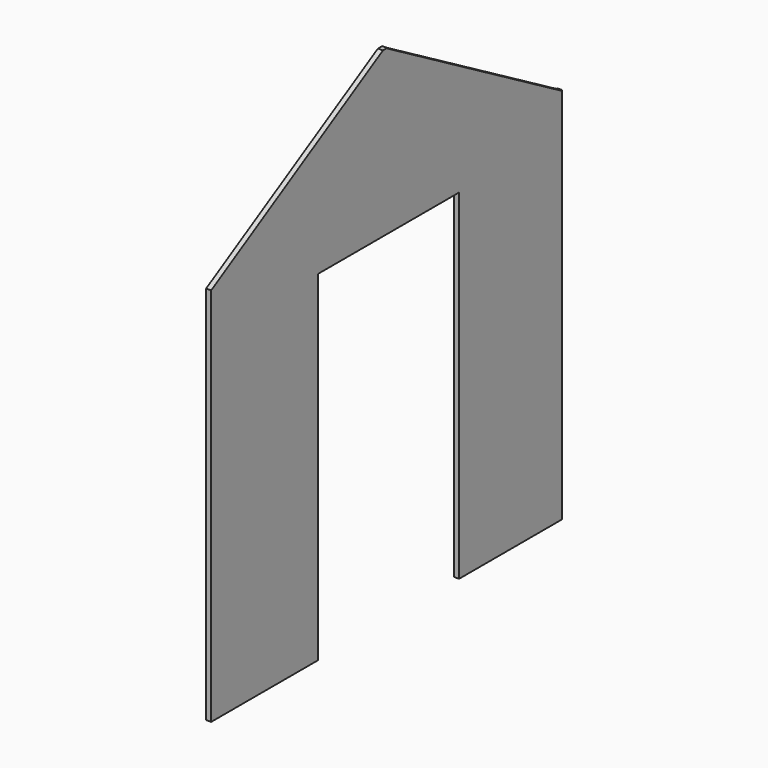
from build123d import *

# Parameters (mm, degrees)
BOX013_W               = 10
BOX013_H               = 140
BOX013_DEPTH           = 270
BOX009_W               = 18
BOX009_H               = 200
BOX009_DEPTH           = 87
BOX009_PLACEMENT_ANGLE = 30
BOX008_W               = 18
BOX008_H               = 200
BOX008_DEPTH           = 87
BOX008_PLACEMENT_ANGLE = 30
BOX007_W               = 348
BOX007_H               = 4
BOX007_DEPTH           = 400


with BuildPart() as door:
    # Box013 → Box013 (new body)
    with BuildSketch(Plane(origin=(-5, 106, 0), x_dir=(1, 0, 0), z_dir=(0, 0, 1))):
        with Locations((5, 70)):
            Rectangle(BOX013_W, BOX013_H)
    extrude(amount=BOX013_DEPTH)


with BuildPart() as box009:
    # Box009 → Box009 (new body)
    with BuildSketch(Plane.XY):
        with Locations((9, 100)):
            Rectangle(BOX009_W, BOX009_H)
    extrude(amount=BOX009_DEPTH)


with BuildPart() as box009_1:
    # Box009 placement: moved
    add(box009.part.moved(Location((598, 174.528857, 399.719854))).rotate(Axis((598, 174.528857, 399.719854), (-1, 0, 0)), BOX009_PLACEMENT_ANGLE))


with BuildPart() as box008:
    # Box008 → Box008 (new body)
    with BuildSketch(Plane.XY):
        with Locations((9, 100)):
            Rectangle(BOX008_W, BOX008_H)
    extrude(amount=BOX008_DEPTH)


with BuildPart() as box008_1:
    # Box008 placement: moved
    add(box008.part.moved(Location((598, -0.25833, 301.447441))).rotate(Axis((598, -0.25833, 301.447441), (1, 0, 0)), BOX008_PLACEMENT_ANGLE))


with BuildPart() as cut004:
    # Box007 → Box007 (new body)
    with BuildSketch(Plane(origin=(605, 0, 0), x_dir=(0, 1, 0), z_dir=(0, 0, 1))):
        with Locations((174, 2)):
            Rectangle(BOX007_W, BOX007_H)
    extrude(amount=BOX007_DEPTH)

    # Cut002: cut Box008
    add(box008_1.part, mode=Mode.SUBTRACT)

    # Cut003: cut Box009
    add(box009_1.part, mode=Mode.SUBTRACT)


with BuildPart() as cut004_1:
    # Cut003 placement: moved
    add(cut004.part.moved(Location((-604, 0, 0))))

    # Cut004: cut Door
    add(door.part, mode=Mode.SUBTRACT)


solid = cut004_1.part
